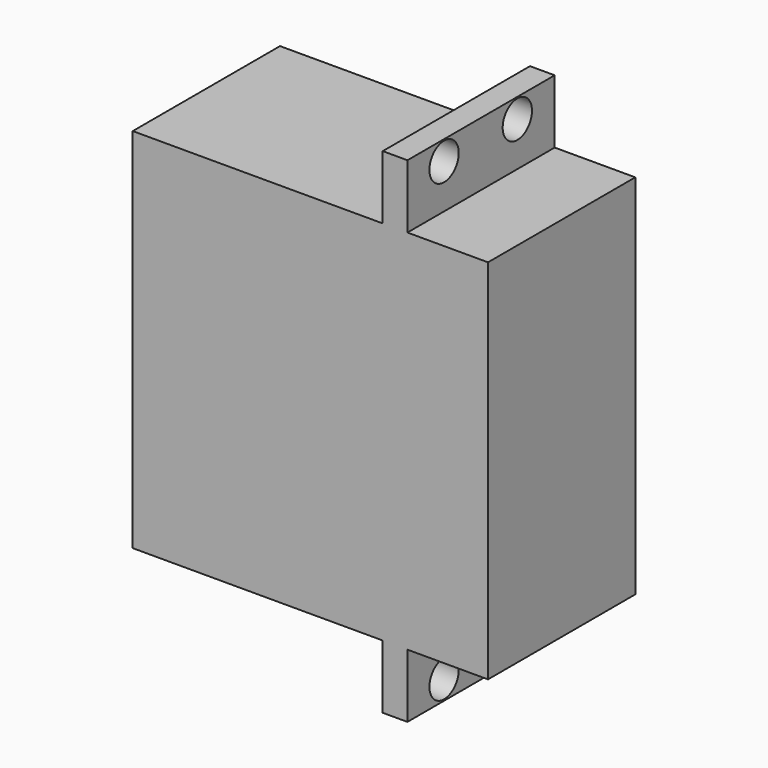
from build123d import *

# Parameters (mm, degrees)
CYLINDER166_R          = 2
CYLINDER166_DEPTH      = 20
CYLINDER165_R          = 2
CYLINDER165_DEPTH      = 20
CYLINDER163_R          = 2
CYLINDER163_DEPTH      = 20
CYLINDER164_R          = 2
CYLINDER164_DEPTH      = 20
BOX227_W               = 38.8
BOX227_H               = 40.1
BOX227_DEPTH           = 20.1
BOX076_W               = 2.7
BOX076_H               = 54
BOX076_DEPTH           = 20.1
CUT119_PLACEMENT_ANGLE = 90


with BuildPart() as cylinder166:
    # Cylinder166 → Cylinder166 (new body)
    with BuildSketch(Plane(origin=(9.4, 2.2, 5), x_dir=(0, 0, -1), z_dir=(1, 0, 0))):
        Circle(CYLINDER166_R)
    extrude(amount=CYLINDER166_DEPTH)


with BuildPart() as cylinder165:
    # Cylinder165 → Cylinder165 (new body)
    with BuildSketch(Plane(origin=(9.4, 2.2, 15), x_dir=(0, 0, -1), z_dir=(1, 0, 0))):
        Circle(CYLINDER165_R)
    extrude(amount=CYLINDER165_DEPTH)


with BuildPart() as cylinder163:
    # Cylinder163 → Cylinder163 (new body)
    with BuildSketch(Plane(origin=(9.4, 51.9, 5), x_dir=(0, 0, -1), z_dir=(1, 0, 0))):
        Circle(CYLINDER163_R)
    extrude(amount=CYLINDER163_DEPTH)


with BuildPart() as cylinder164:
    # Cylinder164 → Cylinder164 (new body)
    with BuildSketch(Plane(origin=(9.4, 51.9, 15), x_dir=(0, 0, -1), z_dir=(1, 0, 0))):
        Circle(CYLINDER164_R)
    extrude(amount=CYLINDER164_DEPTH)


with BuildPart() as box227:
    # Box227 → Box227 (new body)
    with BuildSketch(Plane(origin=(82, -93, 0), x_dir=(1, 0, 0), z_dir=(0, 0, 1))):
        with Locations((19.4, 20.05)):
            Rectangle(BOX227_W, BOX227_H)
    extrude(amount=BOX227_DEPTH)


with BuildPart() as cut119:
    # Box076 → Box076 (new body)
    with BuildSketch(Plane(origin=(109.3, -99.95, 0), x_dir=(1, 0, 0), z_dir=(0, 0, 1))):
        with Locations((1.35, 27)):
            Rectangle(BOX076_W, BOX076_H)
    extrude(amount=BOX076_DEPTH)

    # Fusion087: union Box227
    add(box227.part)


with BuildPart() as cut119_1:
    # Fusion087 placement: moved
    add(cut119.part.moved(Location((-82.6, 100, 0))))

    # Cut116: cut Cylinder164
    add(cylinder164.part, mode=Mode.SUBTRACT)

    # Cut117: cut Cylinder163
    add(cylinder163.part, mode=Mode.SUBTRACT)

    # Cut118: cut Cylinder165
    add(cylinder165.part, mode=Mode.SUBTRACT)

    # Cut119: cut Cylinder166
    add(cylinder166.part, mode=Mode.SUBTRACT)


with BuildPart() as cut119_2:
    # Cut119 placement: moved
    add(cut119_1.part.moved(Location((-4.2, 24.9, 47.1))).rotate(Axis((-4.2, 24.9, 47.1), (-1, 0, 0)), CUT119_PLACEMENT_ANGLE))


solid = cut119_2.part
